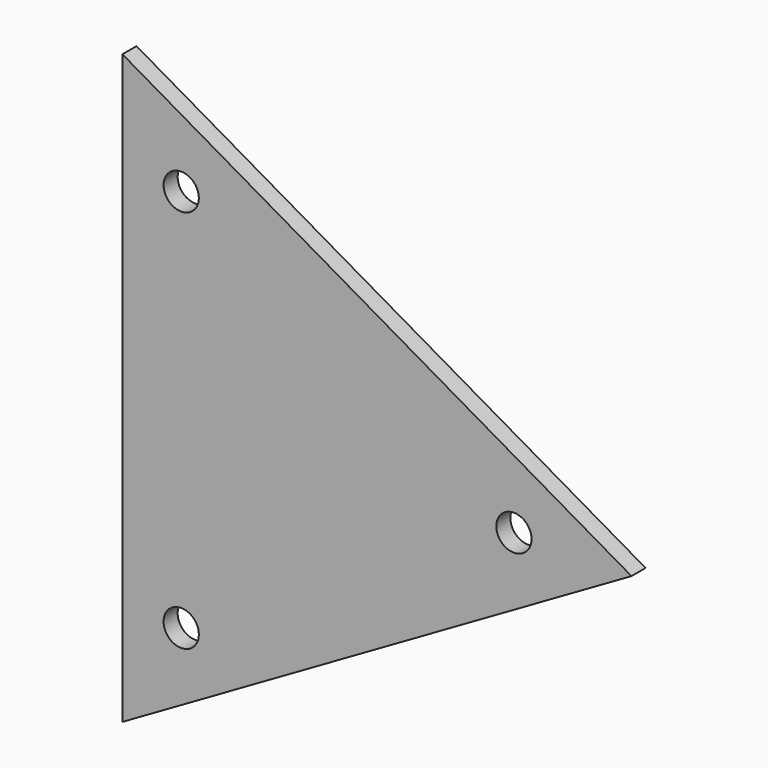
from build123d import *

# Parameters (mm, degrees)
F0_R     = 7.62
F1_DEPTH = 3.81
F2_DEPTH = 3.81


with BuildPart() as f1:
    # F0 (on Front) → F1 (new body, symmetric)
    with BuildSketch(Plane.XZ):
        Polygon((-74.70641, 0), (-294.676863, 127), (-294.676863, -127), align=None)
        with Locations((-269.276863, -83.005909)):
            Circle(F0_R, mode=Mode.SUBTRACT)
        with Locations((-269.276863, 83.005909)):
            Circle(F0_R, mode=Mode.SUBTRACT)
        with Locations((-125.50641, 0)):
            Circle(F0_R, mode=Mode.SUBTRACT)
    extrude(amount=F1_DEPTH, both=True)


with BuildPart() as f2:
    # F0 (on Front) → F2 (new body, symmetric)
    with BuildSketch(Plane.XZ):
        with Locations((-269.276863, 83.005909)):
            Circle(F0_R)
        with Locations((-125.50641, 0)):
            Circle(F0_R)
        with Locations((-269.276863, -83.005909)):
            Circle(F0_R)
    extrude(amount=F2_DEPTH, both=True)


with BuildPart() as f1_1:
    add(f1.part)

    # F3: cut F2
    add(f2.part, mode=Mode.SUBTRACT)


solid = f1_1.part
